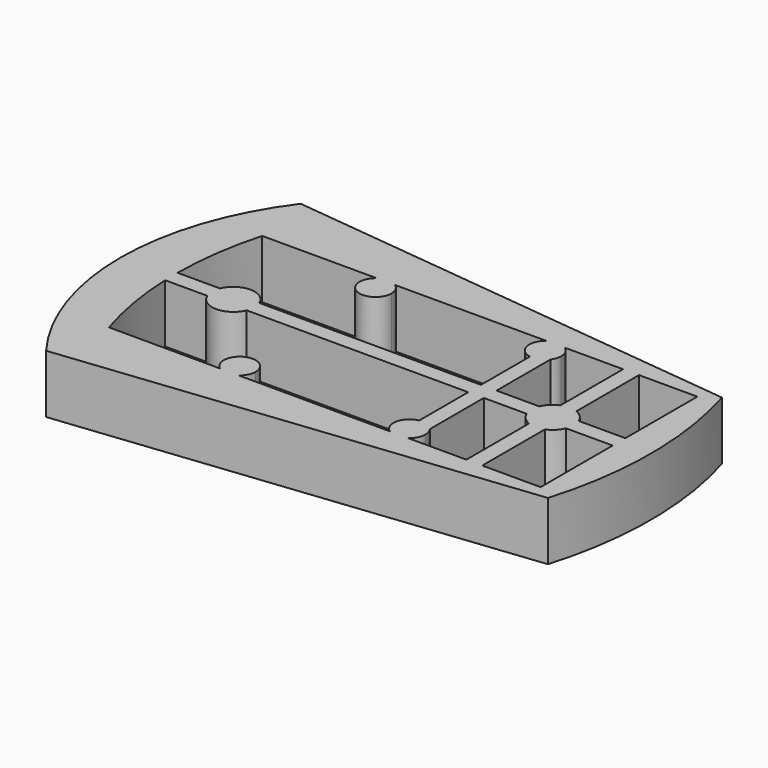
from build123d import *

# Parameters (mm, degrees)
F0_W     = 16.7806061562
F0_H     = 3
F0_R     = 1.3
F0_W_2   = 2.9361768566
F1_DEPTH = 11


with BuildPart() as f1:
    # F0 (on Top) → F1 (new body)
    with BuildSketch(Plane.XY):
        with BuildLine():
            ThreePointArc((-45.8257364572, 20.7169244225), (-48.8257364572, 0.2169244225), (-45.8257364572, -20.2830755775))
            Line((-45.8257364572, -20.2830755775), (42.1742635428, -20.2830755775))
            Line((42.1742635428, -20.2830755775), (42.1742635428, 20.7169244225))
            Line((42.1742635428, 20.7169244225), (-45.8257364572, 20.7169244225))
        make_face()
        with BuildLine():
            Line((28.1742635428, -18.2495740318), (25.1742635428, -18.2469775091))
            Line((25.1742635428, -18.2469775091), (14.1993448848, -18.237478634))
            ThreePointArc((14.1993448848, -18.237478634), (12.4716670211, -18.7830744539), (10.7449361797, -18.2344888171))
            Line((10.7449361797, -18.2344888171), (-4.8257364572, -18.2210122822))
            Line((-4.8257364572, -18.2210122822), (-17.7619531763, -18.2098158887))
            ThreePointArc((-17.7619531763, -18.2098158887), (-19.5283329789, -18.7830744539), (-21.2937178166, -18.2067591197))
            Line((-21.2937178166, -18.2067591197), (-42.2537405073, -18.1886180616))
            ThreePointArc((-42.2537405073, -18.1886180616), (-44.2806098516, -9.8331874592), (-45.1844940816, -1.2830755775))
            ThreePointArc((-45.1844940816, -1.2830755775), (-45.2256405593, 0.2166491767), (-45.2320870806, 1.7169244225))
            ThreePointArc((-45.2320870806, 1.7169244225), (-44.6021619414, 10.2751402015), (-42.8478999843, 18.6752847233))
            Line((-42.8478999843, 18.6752847233), (-21.2452392134, 18.6752389409))
            ThreePointArc((-21.2452392134, 18.6752389409), (-19.5257300993, 19.2169244225), (-17.8062232813, 18.6752316526))
            Line((-17.8062232813, 18.6752316526), (-4.8257364572, 18.6752041432))
            Line((-4.8257364572, 18.6752041432), (10.7373164071, 18.6751711606))
            ThreePointArc((10.7373164071, 18.6751711606), (12.4742648349, 19.226898626), (14.2112109241, 18.6751637984))
            Line((14.2112109241, 18.6751637984), (25.1742635428, 18.6751405645))
            Line((25.1742635428, 18.6751405645), (28.1742635428, 18.6751342066))
            Line((28.1742635428, 18.6751342066), (39.1738213035, 18.6751108953))
            Line((39.1738213035, 18.6751108953), (39.1742646816, 1.7169244225))
            Line((39.1742646816, 1.7169244225), (39.1743431177, -1.2830755775))
            Line((39.1743431177, -1.2830755775), (39.174786962, -18.259095068))
            Line((39.174786962, -18.259095068), (28.1742635428, -18.2495740318))
        make_face(mode=Mode.SUBTRACT)
        with BuildLine():
            Line((42.1742635428, -20.2830755775), (-45.8257364572, -20.2830755775))
            ThreePointArc((-45.8257364572, -20.2830755775), (-48.8257364572, 0.2169244225), (-45.8257364572, 20.7169244225))
            Line((-45.8257364572, 20.7169244225), (42.1742635428, 20.7169244225))
            Line((42.1742635428, 20.7169244225), (-44.8257364572, 30.2169244225))
            ThreePointArc((-44.8257364572, 30.2169244225), (-54.8257364572, 0.2169244225), (-44.8257364572, -29.7830755775))
            Line((-44.8257364572, -29.7830755775), (42.1742635428, -20.2830755775))
        make_face()
        with BuildLine():
            Line((42.1742635428, 20.7169244225), (42.1742635428, -20.2830755775))
            ThreePointArc((42.1742635428, -20.2830755775), (45.1742635428, 0.2169244225), (42.1742635428, 20.7169244225))
        make_face()
        with BuildLine():
            Line((-21.3677669063, -1.2830755775), (-4.8257364572, -1.2830755775))
            Line((-4.8257364572, -1.2830755775), (-4.8257364572, 1.7169244225))
            Line((-4.8257364572, 1.7169244225), (-21.3677669063, 1.7169244225))
            Line((-21.3677669063, 1.7169244225), (-29.8176372136, 1.7169244225))
            ThreePointArc((-29.8176372136, 1.7169244225), (-29.5993897472, 0.9809934723), (-29.5257364572, 0.2169244225))
            ThreePointArc((-29.5257364572, 0.2169244225), (-29.5993897472, -0.5471446273), (-29.8176372136, -1.2830755775))
            Line((-29.8176372136, -1.2830755775), (-21.3677669063, -1.2830755775))
        make_face()
        with Locations((3.5645666209, 0.2169244225)):
            Rectangle(F0_W, F0_H)
        with BuildLine():
            Line((25.1742635428, -3.4911748211), (25.1742635428, -18.2469775091))
            Line((25.1742635428, -18.2469775091), (28.1742635428, -18.2495740318))
            Line((28.1742635428, -18.2495740318), (28.1742635428, -3.4911748211))
            ThreePointArc((28.1742635428, -3.4911748211), (26.6742635428, -3.7830755775), (25.1742635428, -3.4911748211))
        make_face()
        with BuildLine():
            Line((25.1742635428, 18.6751405645), (25.1742635428, 3.925023666))
            ThreePointArc((25.1742635428, 3.925023666), (26.6742635428, 4.2169244225), (28.1742635428, 3.925023666))
            Line((28.1742635428, 3.925023666), (28.1742635428, 18.6751342066))
            Line((28.1742635428, 18.6751342066), (25.1742635428, 18.6751405645))
        make_face()
        with BuildLine():
            Line((11.954869699, -1.2830755775), (11.954869699, -12.8283793097))
            ThreePointArc((11.954869699, -12.8283793097), (13.5907430688, -12.9985696127), (14.8910465556, -14.0056730151))
            Line((14.8910465556, -14.0056730151), (14.8910465556, -1.2830755775))
            Line((14.8910465556, -1.2830755775), (11.954869699, -1.2830755775))
        make_face()
        with BuildLine():
            Line((11.954869699, 1.7169244225), (14.8910465556, 1.7169244225))
            Line((14.8910465556, 1.7169244225), (14.8910465556, 14.4227449479))
            ThreePointArc((14.8910465556, 14.4227449479), (13.5889929924, 13.4209788545), (11.954869699, 13.2521006461))
            Line((11.954869699, 13.2521006461), (11.954869699, 1.7169244225))
        make_face()
        with BuildLine():
            ThreePointArc((11.954869699, 13.2521006461), (13.5889929924, 13.4209788545), (14.8910465556, 14.4227449479))
            ThreePointArc((14.8910465556, 14.4227449479), (15.3320910736, 15.2720765855), (15.4842326594, 16.2169244225))
            ThreePointArc((15.4842326594, 16.2169244225), (15.1470965382, 17.6010780599), (14.2112109241, 18.6751637984))
            Line((14.2112109241, 18.6751637984), (10.7373164071, 18.6751711606))
            ThreePointArc((10.7373164071, 18.6751711606), (9.5373926729, 15.5575580004), (11.954869699, 13.2521006461))
        make_face()
        with Locations((12.4742634653, 16.2169244225)):
            Circle(F0_R, mode=Mode.SUBTRACT)
        with BuildLine():
            ThreePointArc((-21.2452392134, 18.6752389409), (-22.5247701001, 16.2930638272), (-21.3677669063, 13.8490300362))
            ThreePointArc((-21.3677669063, 13.8490300362), (-18.2078008266, 13.5219205869), (-16.5257364572, 16.2169244225))
            ThreePointArc((-16.5257364572, 16.2169244225), (-16.8650467414, 17.6028285448), (-17.8062232813, 18.6752316526))
            Line((-17.8062232813, 18.6752316526), (-21.2452392134, 18.6752389409))
        make_face()
        with Locations((-19.5257364572, 16.2169244225)):
            Circle(F0_R, mode=Mode.SUBTRACT)
        with BuildLine():
            Line((10.7449361797, -18.2344888171), (14.1993448848, -18.237478634))
            ThreePointArc((14.1993448848, -18.237478634), (15.1365223606, -17.1659631315), (15.4742635428, -15.7830755775))
            ThreePointArc((15.4742635428, -15.7830755775), (15.3247327181, -14.8477545199), (14.8910465556, -14.0056730151))
            ThreePointArc((14.8910465556, -14.0056730151), (13.5907430688, -12.9985696127), (11.954869699, -12.8283793097))
            ThreePointArc((11.954869699, -12.8283793097), (9.5466891598, -15.1278594056), (10.7449361797, -18.2344888171))
        make_face()
        with Locations((12.4742635428, -15.7830755775)):
            Circle(F0_R, mode=Mode.SUBTRACT)
        with BuildLine():
            Line((-21.2937178166, -18.2067591197), (-17.7619531763, -18.2098158887))
            ThreePointArc((-17.7619531763, -18.2098158887), (-16.852596932, -17.1448116308), (-16.5257364572, -15.7830755775))
            ThreePointArc((-16.5257364572, -15.7830755775), (-18.2078008266, -13.088071742), (-21.3677669063, -13.4151811912))
            ThreePointArc((-21.3677669063, -13.4151811912), (-22.5253782817, -15.8294320701), (-21.2937178166, -18.2067591197))
        make_face()
        with Locations((-19.5257364572, -15.7830755775)):
            Circle(F0_R, mode=Mode.SUBTRACT)
        with BuildLine():
            Line((30.3823627864, -1.2830755775), (39.1743431177, -1.2830755775))
            Line((39.1743431177, -1.2830755775), (39.1742646816, 1.7169244225))
            Line((39.1742646816, 1.7169244225), (30.3823627864, 1.7169244225))
            ThreePointArc((30.3823627864, 1.7169244225), (30.6742635428, 0.2169244225), (30.3823627864, -1.2830755775))
        make_face()
        with BuildLine():
            Line((14.8910465556, -1.2830755775), (22.9661642993, -1.2830755775))
            ThreePointArc((22.9661642993, -1.2830755775), (22.6742635428, 0.2169244225), (22.9661642993, 1.7169244225))
            Line((22.9661642993, 1.7169244225), (14.8910465556, 1.7169244225))
            Line((14.8910465556, 1.7169244225), (14.8910465556, -1.2830755775))
        make_face()
        with BuildLine():
            Line((-37.2338357007, -1.2830755775), (-29.8176372136, -1.2830755775))
            ThreePointArc((-29.8176372136, -1.2830755775), (-29.5993897472, -0.5471446273), (-29.5257364572, 0.2169244225))
            ThreePointArc((-29.5257364572, 0.2169244225), (-29.5993897472, 0.9809934723), (-29.8176372136, 1.7169244225))
            Line((-29.8176372136, 1.7169244225), (-37.2338357007, 1.7169244225))
            ThreePointArc((-37.2338357007, 1.7169244225), (-37.5257364572, 0.2169244225), (-37.2338357007, -1.2830755775))
        make_face()
        with Locations((-33.5257364572, 0.2169244225)):
            Circle(F0_R, mode=Mode.SUBTRACT)
        with BuildLine():
            ThreePointArc((22.9661642993, 1.7169244225), (22.6742635428, 0.2169244225), (22.9661642993, -1.2830755775))
            Line((22.9661642993, -1.2830755775), (30.3823627864, -1.2830755775))
            ThreePointArc((30.3823627864, -1.2830755775), (30.6742635428, 0.2169244225), (30.3823627864, 1.7169244225))
            Line((30.3823627864, 1.7169244225), (22.9661642993, 1.7169244225))
        make_face()
        with Locations((26.6742635428, 0.2169244225)):
            Circle(F0_R, mode=Mode.SUBTRACT)
        with BuildLine():
            ThreePointArc((-45.2320870806, 1.7169244225), (-45.2256405593, 0.2166491767), (-45.1844940816, -1.2830755775))
            Line((-45.1844940816, -1.2830755775), (-37.2338357007, -1.2830755775))
            ThreePointArc((-37.2338357007, -1.2830755775), (-37.5257364572, 0.2169244225), (-37.2338357007, 1.7169244225))
            Line((-37.2338357007, 1.7169244225), (-45.2320870806, 1.7169244225))
        make_face()
        with BuildLine():
            ThreePointArc((-37.2338357007, -1.2830755775), (-33.5257364572, -3.7830755775), (-29.8176372136, -1.2830755775))
            Line((-29.8176372136, -1.2830755775), (-37.2338357007, -1.2830755775))
        make_face()
        with BuildLine():
            Line((-37.2338357007, 1.7169244225), (-29.8176372136, 1.7169244225))
            ThreePointArc((-29.8176372136, 1.7169244225), (-33.5257364572, 4.2169244225), (-37.2338357007, 1.7169244225))
        make_face()
        with BuildLine():
            ThreePointArc((25.1742635428, 3.925023666), (23.8458364181, 3.0453515472), (22.9661642993, 1.7169244225))
            Line((22.9661642993, 1.7169244225), (30.3823627864, 1.7169244225))
            ThreePointArc((30.3823627864, 1.7169244225), (29.5026906676, 3.0453515472), (28.1742635428, 3.925023666))
            ThreePointArc((28.1742635428, 3.925023666), (26.6742635428, 4.2169244225), (25.1742635428, 3.925023666))
        make_face()
        with BuildLine():
            ThreePointArc((22.9661642993, -1.2830755775), (23.8458364181, -2.6115027023), (25.1742635428, -3.4911748211))
            ThreePointArc((25.1742635428, -3.4911748211), (26.6742635428, -3.7830755775), (28.1742635428, -3.4911748211))
            ThreePointArc((28.1742635428, -3.4911748211), (29.5026906676, -2.6115027023), (30.3823627864, -1.2830755775))
            Line((30.3823627864, -1.2830755775), (22.9661642993, -1.2830755775))
        make_face()
        with Locations((13.4229581273, 0.2169244225)):
            Rectangle(F0_W_2, F0_H)
        with Locations((12.4742634653, 16.2169244225)):
            Circle(F0_R)
        with Locations((-19.5257364572, 16.2169244225)):
            Circle(F0_R)
        with Locations((-19.5257364572, -15.7830755775)):
            Circle(F0_R)
        with Locations((12.4742635428, -15.7830755775)):
            Circle(F0_R)
        with Locations((-33.5257364572, 0.2169244225)):
            Circle(F0_R)
        with Locations((26.6742635428, 0.2169244225)):
            Circle(F0_R)
        with BuildLine():
            ThreePointArc((-21.2937178166, -18.2067591197), (-19.5283329789, -18.7830744539), (-17.7619531763, -18.2098158887))
            Line((-17.7619531763, -18.2098158887), (-21.2937178166, -18.2067591197))
        make_face()
        with BuildLine():
            Line((10.7373164071, 18.6751711606), (14.2112109241, 18.6751637984))
            ThreePointArc((14.2112109241, 18.6751637984), (12.4742648349, 19.226898626), (10.7373164071, 18.6751711606))
        make_face()
        with BuildLine():
            ThreePointArc((10.7449361797, -18.2344888171), (12.4716670211, -18.7830744539), (14.1993448848, -18.237478634))
            Line((14.1993448848, -18.237478634), (10.7449361797, -18.2344888171))
        make_face()
        with BuildLine():
            Line((-21.2452392134, 18.6752389409), (-17.8062232813, 18.6752316526))
            ThreePointArc((-17.8062232813, 18.6752316526), (-19.5257300993, 19.2169244225), (-21.2452392134, 18.6752389409))
        make_face()
    extrude(amount=F1_DEPTH)


solid = f1.part
